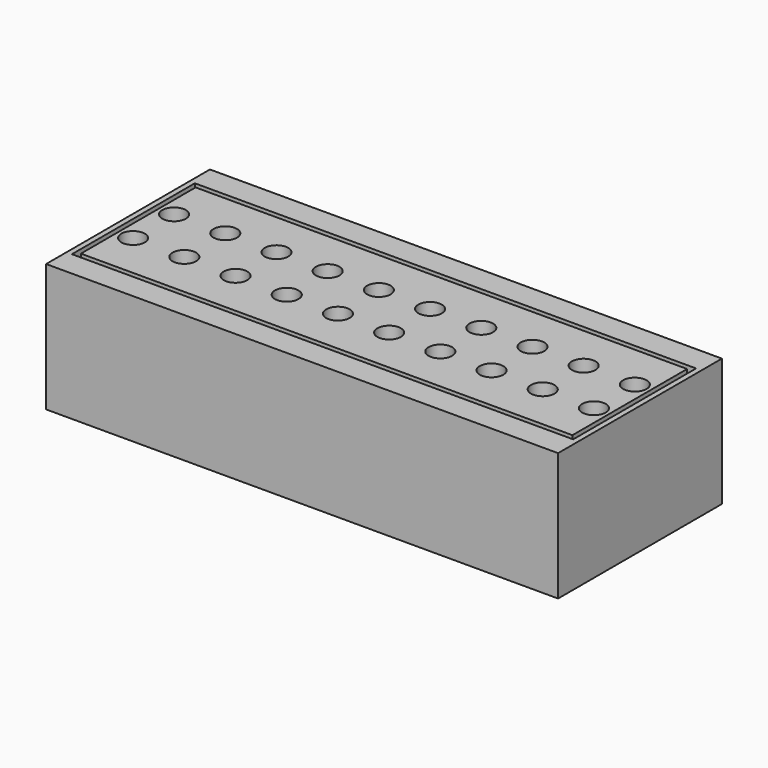
from build123d import *

# Parameters (mm, degrees)
PAD001_DEPTH = 5.08
SKETCH_W     = 25.4
SKETCH_H     = 10.16
SKETCH_W_2   = 2.1336
SKETCH_H_2   = 3.556
PAD_DEPTH    = 6.35
PAD004_DEPTH = 25.4
PAD003_DEPTH = 25.4
SKETCH002_R  = 0.5842
PAD002_DEPTH = 1.778
SKETCH008_W  = 2.1336
SKETCH008_H  = 3.556
PAD008_DEPTH = 5.08
SKETCH007_W  = 2.1336
SKETCH007_H  = 3.556
PAD007_DEPTH = 5.08
SKETCH006_W  = 2.1336
SKETCH006_H  = 3.556
PAD006_DEPTH = 5.08
SKETCH009_W  = 2.1336
SKETCH009_H  = 3.556
PAD009_DEPTH = 5.08
SKETCH011_W  = 2.1336
SKETCH011_H  = 3.556
PAD011_DEPTH = 5.08
SKETCH010_W  = 2.1336
SKETCH010_H  = 3.556
PAD010_DEPTH = 5.08
SKETCH013_W  = 2.1336
SKETCH013_H  = 3.556
PAD013_DEPTH = 5.08
SKETCH012_W  = 2.1336
SKETCH012_H  = 3.556
PAD012_DEPTH = 5.08
SKETCH014_W  = 2.1336
SKETCH014_H  = 3.556
PAD014_DEPTH = 5.08
SKETCH005_W  = 2.1336
SKETCH005_H  = 3.556
PAD005_DEPTH = 5.08


with BuildPart() as body001:
    # Sketch001 → Pad001 (new body)
    with BuildSketch(Plane.XY.offset(2.921)):
        Polygon((-12.4333, 3.81), (-11.43, 3.81), (-8.89, 3.81), (-6.35, 3.81), (-3.81, 3.81), (-1.27, 3.81), (1.27, 3.81), (3.81, 3.81), (6.35, 3.81), (8.89, 3.81), (11.43, 3.81), (12.4333, 3.81), (12.4333, -3.81), (11.43, -3.81), (8.89, -3.81), (6.35, -3.81), (3.81, -3.81), (1.27, -3.81), (-1.27, -3.81), (-3.81, -3.81), (-6.35, -3.81), (-8.89, -3.81), (-11.43, -3.81), (-12.4333, -3.81), align=None)
    extrude(amount=PAD001_DEPTH)


with BuildPart() as body:
    # Sketch → Pad (new body)
    with BuildSketch(Plane.XY):
        Rectangle(SKETCH_W, SKETCH_H)
        with Locations((-11.3665, 0)):
            Rectangle(SKETCH_W_2, SKETCH_H_2, mode=Mode.SUBTRACT)
        with Locations((-8.840611, 0)):
            Rectangle(SKETCH_W_2, SKETCH_H_2, mode=Mode.SUBTRACT)
        with Locations((-6.314722, 0)):
            Rectangle(SKETCH_W_2, SKETCH_H_2, mode=Mode.SUBTRACT)
        with Locations((-3.788833, 0)):
            Rectangle(SKETCH_W_2, SKETCH_H_2, mode=Mode.SUBTRACT)
        with Locations((-1.262944, 0)):
            Rectangle(SKETCH_W_2, SKETCH_H_2, mode=Mode.SUBTRACT)
        with Locations((1.262944, 0)):
            Rectangle(SKETCH_W_2, SKETCH_H_2, mode=Mode.SUBTRACT)
        with Locations((3.788833, 0)):
            Rectangle(SKETCH_W_2, SKETCH_H_2, mode=Mode.SUBTRACT)
        with Locations((6.314722, 0)):
            Rectangle(SKETCH_W_2, SKETCH_H_2, mode=Mode.SUBTRACT)
        with Locations((8.840611, 0)):
            Rectangle(SKETCH_W_2, SKETCH_H_2, mode=Mode.SUBTRACT)
        with Locations((11.3665, 0)):
            Rectangle(SKETCH_W_2, SKETCH_H_2, mode=Mode.SUBTRACT)
    extrude(amount=PAD_DEPTH)

    # Cut: cut Body001
    add(body001.part, mode=Mode.SUBTRACT)


with BuildPart() as obj1:
    # Sketch004 → Pad004 (new body)
    with BuildSketch(Plane(origin=(12.7, 0, 0), x_dir=(0, -1, 0), z_dir=(-1, 0, 0))):
        Polygon((-3.683, 5.0292), (-3.683, 2.8702), (-1.524, 2.8702), align=None)
    extrude(amount=PAD004_DEPTH)


with BuildPart() as body003:
    # Sketch003 → Pad003 (new body)
    with BuildSketch(Plane.YZ.offset(-12.7)):
        Polygon((-3.683, 5.0292), (-3.683, 2.8702), (-1.524, 2.8702), align=None)
    extrude(amount=PAD003_DEPTH)


with BuildPart() as plug:
    # Sketch002 → Pad002 (new body)
    with BuildSketch(Plane.XY.offset(4.572)):
        Polygon((-12.192, 3.556), (-11.43, 3.556), (-8.89, 3.556), (-6.35, 3.556), (-3.81, 3.556), (-1.27, 3.556), (1.27, 3.556), (3.81, 3.556), (6.35, 3.556), (8.89, 3.556), (11.43, 3.556), (12.192, 3.556), (12.192, -3.556), (11.43, -3.556), (8.89, -3.556), (6.35, -3.556), (3.81, -3.556), (1.27, -3.556), (-1.27, -3.556), (-3.81, -3.556), (-6.35, -3.556), (-8.89, -3.556), (-11.43, -3.556), (-12.192, -3.556), align=None)
        with Locations((-11.43, 1.27)):
            Circle(SKETCH002_R, mode=Mode.SUBTRACT)
        with Locations((-11.43, -1.27)):
            Circle(SKETCH002_R, mode=Mode.SUBTRACT)
        with Locations((-8.89, -1.27)):
            Circle(SKETCH002_R, mode=Mode.SUBTRACT)
        with Locations((-8.89, 1.27)):
            Circle(SKETCH002_R, mode=Mode.SUBTRACT)
        with Locations((-6.35, 1.27)):
            Circle(SKETCH002_R, mode=Mode.SUBTRACT)
        with Locations((-6.35, -1.27)):
            Circle(SKETCH002_R, mode=Mode.SUBTRACT)
        with Locations((-3.81, 1.27)):
            Circle(SKETCH002_R, mode=Mode.SUBTRACT)
        with Locations((-3.81, -1.27)):
            Circle(SKETCH002_R, mode=Mode.SUBTRACT)
        with Locations((-1.27, 1.27)):
            Circle(SKETCH002_R, mode=Mode.SUBTRACT)
        with Locations((-1.27, -1.27)):
            Circle(SKETCH002_R, mode=Mode.SUBTRACT)
        with Locations((1.27, 1.27)):
            Circle(SKETCH002_R, mode=Mode.SUBTRACT)
        with Locations((1.27, -1.27)):
            Circle(SKETCH002_R, mode=Mode.SUBTRACT)
        with Locations((3.81, 1.27)):
            Circle(SKETCH002_R, mode=Mode.SUBTRACT)
        with Locations((3.81, -1.27)):
            Circle(SKETCH002_R, mode=Mode.SUBTRACT)
        with Locations((6.35, 1.27)):
            Circle(SKETCH002_R, mode=Mode.SUBTRACT)
        with Locations((6.35, -1.27)):
            Circle(SKETCH002_R, mode=Mode.SUBTRACT)
        with Locations((8.89, 1.27)):
            Circle(SKETCH002_R, mode=Mode.SUBTRACT)
        with Locations((8.89, -1.27)):
            Circle(SKETCH002_R, mode=Mode.SUBTRACT)
        with Locations((11.43, 1.27)):
            Circle(SKETCH002_R, mode=Mode.SUBTRACT)
        with Locations((11.43, -1.27)):
            Circle(SKETCH002_R, mode=Mode.SUBTRACT)
    extrude(amount=PAD002_DEPTH)

    # Cut001: cut Body003
    add(body003.part, mode=Mode.SUBTRACT)

    # Cut002: cut obj1
    add(obj1.part, mode=Mode.SUBTRACT)


with BuildPart() as led003:
    # Sketch008 → Pad008 (new body)
    with BuildSketch(Plane.XY):
        Rectangle(SKETCH008_W, SKETCH008_H)
    extrude(amount=PAD008_DEPTH)


with BuildPart() as led003_1:
    # Body008 placement: moved
    add(led003.part.moved(Location((-3.81, 0, 0))))


with BuildPart() as led002:
    # Sketch007 → Pad007 (new body)
    with BuildSketch(Plane.XY):
        Rectangle(SKETCH007_W, SKETCH007_H)
    extrude(amount=PAD007_DEPTH)


with BuildPart() as led002_1:
    # Body007 placement: moved
    add(led002.part.moved(Location((3.81, 0, 0))))


with BuildPart() as led001:
    # Sketch006 → Pad006 (new body)
    with BuildSketch(Plane.XY):
        Rectangle(SKETCH006_W, SKETCH006_H)
    extrude(amount=PAD006_DEPTH)


with BuildPart() as led001_1:
    # Body006 placement: moved
    add(led001.part.moved(Location((-1.27, 0, 0))))


with BuildPart() as led004:
    # Sketch009 → Pad009 (new body)
    with BuildSketch(Plane.XY):
        Rectangle(SKETCH009_W, SKETCH009_H)
    extrude(amount=PAD009_DEPTH)


with BuildPart() as led004_1:
    # Body009 placement: moved
    add(led004.part.moved(Location((6.35, 0, 0))))


with BuildPart() as led006:
    # Sketch011 → Pad011 (new body)
    with BuildSketch(Plane.XY):
        Rectangle(SKETCH011_W, SKETCH011_H)
    extrude(amount=PAD011_DEPTH)


with BuildPart() as led006_1:
    # Body011 placement: moved
    add(led006.part.moved(Location((-8.89, 0, 0))))


with BuildPart() as led005:
    # Sketch010 → Pad010 (new body)
    with BuildSketch(Plane.XY):
        Rectangle(SKETCH010_W, SKETCH010_H)
    extrude(amount=PAD010_DEPTH)


with BuildPart() as led005_1:
    # Body010 placement: moved
    add(led005.part.moved(Location((-6.35, 0, 0))))


with BuildPart() as led008:
    # Sketch013 → Pad013 (new body)
    with BuildSketch(Plane.XY):
        Rectangle(SKETCH013_W, SKETCH013_H)
    extrude(amount=PAD013_DEPTH)


with BuildPart() as led008_1:
    # Body013 placement: moved
    add(led008.part.moved(Location((-11.43, 0, 0))))


with BuildPart() as led007:
    # Sketch012 → Pad012 (new body)
    with BuildSketch(Plane.XY):
        Rectangle(SKETCH012_W, SKETCH012_H)
    extrude(amount=PAD012_DEPTH)


with BuildPart() as led007_1:
    # Body012 placement: moved
    add(led007.part.moved(Location((8.89, 0, 0))))


with BuildPart() as led009:
    # Sketch014 → Pad014 (new body)
    with BuildSketch(Plane.XY):
        Rectangle(SKETCH014_W, SKETCH014_H)
    extrude(amount=PAD014_DEPTH)


with BuildPart() as led009_1:
    # Body014 placement: moved
    add(led009.part.moved(Location((11.43, 0, 0))))


with BuildPart() as leds:
    # Sketch005 → Pad005 (new body)
    with BuildSketch(Plane.XY):
        Rectangle(SKETCH005_W, SKETCH005_H)
    extrude(amount=PAD005_DEPTH)


with BuildPart() as leds_1:
    # Body005 placement: moved
    add(leds.part.moved(Location((1.27, 0, 0))))

    # Fusion: union LED003, LED002, LED001, LED004, LED006, LED005, LED008, LED007, LED009
    add(led003_1.part)
    add(led002_1.part)
    add(led001_1.part)
    add(led004_1.part)
    add(led006_1.part)
    add(led005_1.part)
    add(led008_1.part)
    add(led007_1.part)
    add(led009_1.part)


solid = Compound([body.part, plug.part, leds_1.part])
